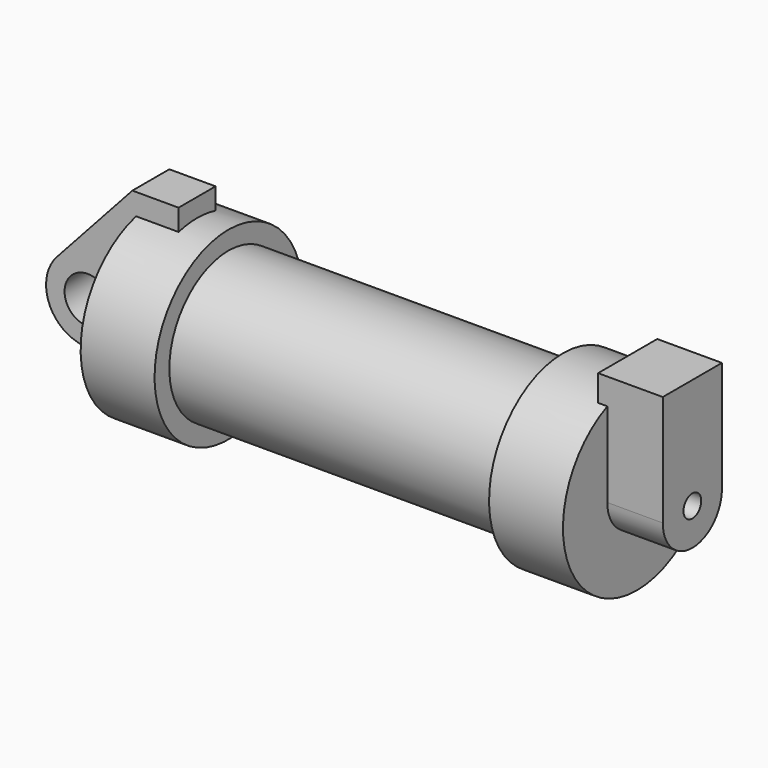
from build123d import *

# Parameters (mm, degrees)
F0_W          = 5.842
F0_H          = 12.7
F0_R          = 3.175
F2_DEPTH      = 3.175
F3_R          = 1.524
F4_DEPTH      = 7.62
F4_DEPTH_BACK = 1.27
F5_DEPTH      = 56.134


with BuildPart() as f1:
    # F0 (on Front) → F1 (revolve)
    with BuildSketch(Plane.XZ):
        Polygon((5.842, 12.7), (5.842, 0), (66.294, 0), (66.294, 12.7), (56.134, 12.7), (56.134, 10.16), (10.16, 10.16), (10.16, 12.7), align=None)
        with Locations((2.921, 6.35)):
            Rectangle(F0_W, F0_H)
    revolve(axis=Axis((33.147, 0, 0), (-1, 0, 0)))

    # F0 (on Front) → F2 (join, symmetric)
    with BuildSketch(Plane.XZ):
        with Locations((2.921, 6.35)):
            Rectangle(F0_W, F0_H)
        with BuildLine():
            Line((-0.9398, 0), (0, 0))
            Line((0, 0), (0, 12.7))
            Line((0, 12.7), (5.842, 12.7))
            Line((5.842, 12.7), (5.842, 15.24))
            Line((5.842, 15.24), (-0.508, 15.24))
            Line((-0.508, 15.24), (-10.8806298187, 3.8475430269))
            ThreePointArc((-10.8806298187, 3.8475430269), (-4.5919612295, 5.3297205562), (-0.9398, 0))
        make_face()
        with BuildLine():
            Line((5.842, 0), (0, 0))
            Line((0, 0), (-0.9398, 0))
            ThreePointArc((-0.9398, 0), (-3.1957909266, -4.5493385486), (-8.1826630726, -5.5069827884))
            Line((-8.1826630726, -5.5069827884), (5.842, -9.398))
            Line((5.842, -9.398), (5.842, 0))
        make_face()
        with BuildLine():
            ThreePointArc((-8.1826630726, -5.5069827884), (-3.1957909266, -4.5493385486), (-0.9398, 0))
            ThreePointArc((-0.9398, 0), (-4.5919612295, 5.3297205562), (-10.8806298187, 3.8475430269))
            ThreePointArc((-10.8806298187, 3.8475430269), (-12.1459778134, -1.5837270034), (-8.1826630726, -5.5069827884))
        make_face()
        with Locations((-6.6548, 0)):
            Circle(F0_R, mode=Mode.SUBTRACT)
    extrude(amount=F2_DEPTH, both=True)

    # F3 (on face) → F4 (join, two sides)
    with BuildSketch(Plane.YZ.offset(66.294)) as f4_sk:
        with BuildLine():
            ThreePointArc((-5.08, 0), (0, -5.08), (5.08, 0))
            ThreePointArc((5.08, 0), (0, 5.08), (-5.08, 0))
        make_face()
        Circle(F3_R, mode=Mode.SUBTRACT)
        with BuildLine():
            ThreePointArc((-5.08, 0), (0, 5.08), (5.08, 0))
            Line((5.08, 0), (5.08, 15.24))
            Line((5.08, 15.24), (-5.08, 15.24))
            Line((-5.08, 15.24), (-5.08, 0))
        make_face()
    extrude(amount=F4_DEPTH)
    extrude(f4_sk.sketch, amount=-F4_DEPTH_BACK)

    # F5 (add, through all): a face of the model
    f5_faces = [f1.faces().sort_by_distance(p)[0] for p in [
        (66.294, 0, 0),
    ]]
    extrude(f5_faces, amount=-F5_DEPTH)


solid = f1.part
